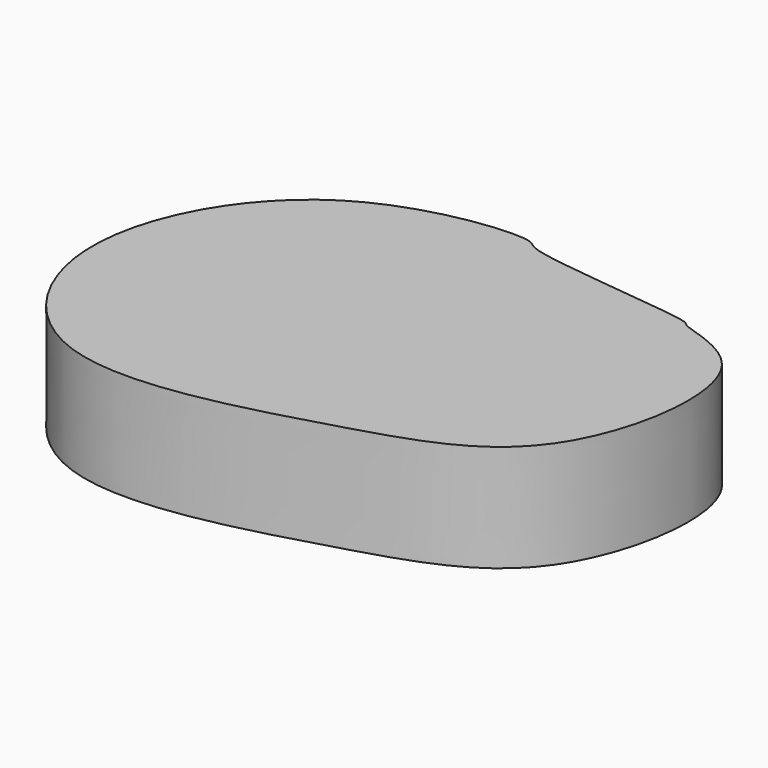
from build123d import *

# Parameters (mm, degrees)
F1_DEPTH = 31.496


with BuildPart() as f1:
    # F0 (on Top) → F1 (new body)
    with BuildSketch(Plane.XY):
        with BuildLine():
            add(Edge.make_bspline(
                [(68.927899003, 31.2884114683), (77.8329944541, 19.5980014647), (70.317907629, -32.5402708498), (19.180256884, -47.7848828559), (-56.829707502, -69.7193597631), (-92.8198202373, -13.9202897095), (-58.8646120932, 49.1479645256), (-2.5470215149, 54.0778383976), (-2.727135504, 47.6144813893), (50.2642008228, 44.1749057653), (49.3046672776, 40.7891009857), (63.3240750041, 38.644986195), (68.927899003, 31.2884114683)],
                knots=[0, 0, 0, 0, 0.1214912597, 0.2420943577, 0.3827007668, 0.4998387183, 0.6330434215, 0.7457851527, 0.7828251594, 0.8991102843, 0.9235476318, 1, 1, 1, 1], degree=3))
        make_face()
    extrude(amount=F1_DEPTH)


solid = f1.part
